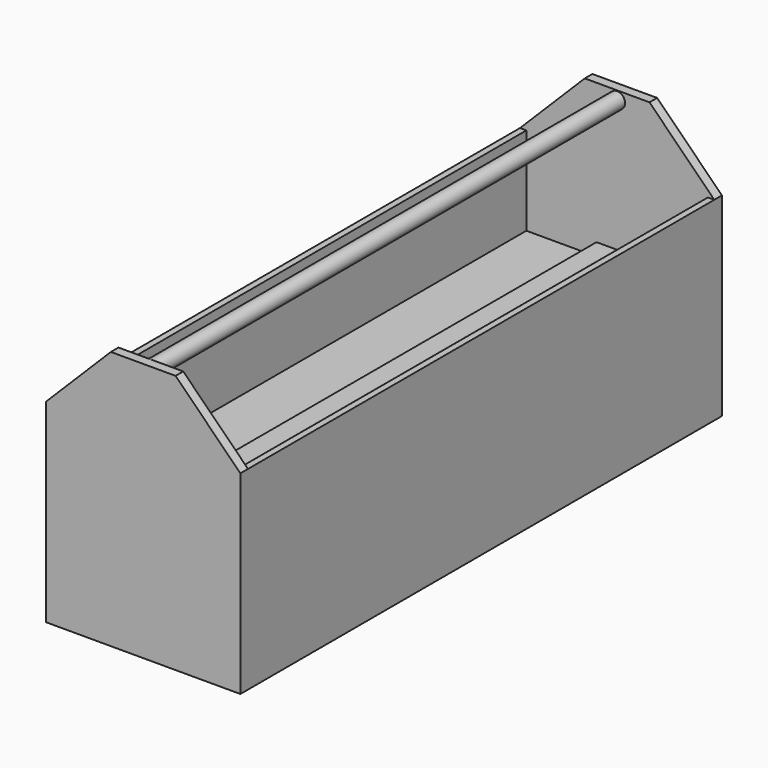
from build123d import *

# Parameters (mm, degrees)
F1_DEPTH = 15
F2_R     = 12.5
F3_DEPTH = 914.4
F5_DEPTH = 914.4
F7_DEPTH = 15
F9_DEPTH = 914.4


with BuildPart() as f1:
    # F0 (on Front) → F1 (new body)
    with BuildSketch(Plane.XZ):
        Polygon((101.6, 101.6), (0, 0), (0, -304.8), (304.8, -304.8), (304.8, 0), (203.2, 101.6), align=None)
    extrude(amount=F1_DEPTH)

    # F2 (on face) → F3 (join)
    with BuildSketch(Plane.XZ.offset(15)):
        with Locations((152.4, 87.9872098923)):
            Circle(F2_R)
    extrude(amount=F3_DEPTH)

    # F4 (on face) → F5 (join)
    with BuildSketch(Plane.XZ.offset(15)):
        Polygon((294.8, 0), (294.8, -294.8), (10, -294.8), (10, 0), (0, 0), (0, -304.8), (304.8, -304.8), (304.8, 0), align=None)
    extrude(amount=F5_DEPTH)

    # F6 (on face) → F7 (join)
    with BuildSketch(Plane.XZ.offset(929.4)):
        Polygon((0, 0), (0, -304.8), (304.8, -304.8), (304.8, 0), (203.2, 101.6), (101.6, 101.6), align=None)
    extrude(amount=F7_DEPTH)

    # F8 (on face) → F9 (join)
    with BuildSketch(Plane.XZ.offset(15)):
        Polygon((10, -147.4), (152.4, -147.4), (152.4, -118.5992388964), (120, -118.5992388964), (120, -138.5992388964), (10, -138.5992388964), align=None)
    extrude(amount=F9_DEPTH)


solid = f1.part
